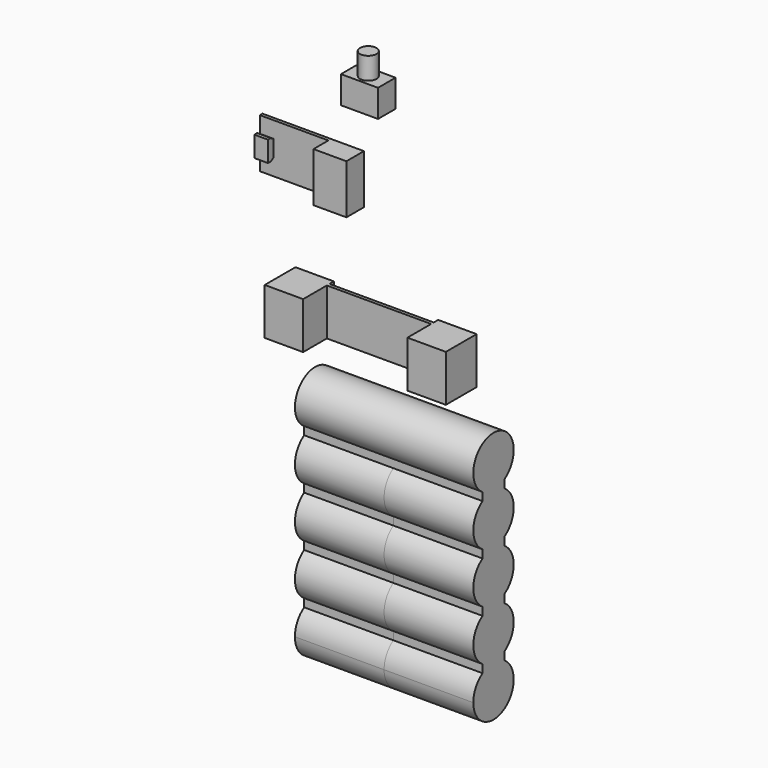
from build123d import *

# Parameters (mm, degrees)
F2_DEPTH      = 32.5
F0_W          = 38
F0_H          = 17
F3_DEPTH      = 1.2
F0_W_2        = 37
F0_H_2        = 18
F4_DEPTH      = 1.2
F5_DEPTH      = 4
F0_W_3        = 3
F0_H_3        = 8
F0_W_4        = 14
F7_DEPTH      = 10.8
F7_DEPTH_BACK = 3.2
F9_DEPTH      = 5
F10_W         = 12
F10_H         = 18
F11_DEPTH     = 8


with BuildPart() as f2:
    # F1 (on Right) → F2 (new body, symmetric)
    with BuildSketch(Plane.YZ):
        with BuildLine():
            ThreePointArc((-4.2, -54.7390203901), (-1.1179210595, -51.4117787547), (0, -47.0163265596))
            Line((0, -47.0163265596), (-18.4, -47.0163265596))
            ThreePointArc((-18.4, -47.0163265596), (-17.2820789405, -51.4117787547), (-14.2, -54.7390203901))
            ThreePointArc((-14.2, -54.7390203901), (-11.8068387969, -55.8392734305), (-9.2000000533, -56.2163265596))
            ThreePointArc((-9.2000000533, -56.2163265596), (-6.5931612543, -55.8392734456), (-4.2, -54.7390203901))
        make_face()
        with BuildLine():
            Line((-18.4, -47.0163265596), (0, -47.0163265596))
            ThreePointArc((0, -47.0163265596), (-9.2, -37.8163265596), (-18.4, -47.0163265596))
        make_face()
        with BuildLine():
            Line((-4.2, -57.6936327291), (-4.2, -54.7390203901))
            ThreePointArc((-4.2, -54.7390203901), (-6.5931612543, -55.8392734456), (-9.2000000533, -56.2163265596))
            ThreePointArc((-9.2000000533, -56.2163265596), (-6.5931612543, -56.5933796736), (-4.2, -57.6936327291))
        make_face()
        with BuildLine():
            ThreePointArc((-9.2000000533, -56.2163265596), (-11.8068387969, -55.8392734305), (-14.2, -54.7390203901))
            Line((-14.2, -54.7390203901), (-14.2, -57.6936327291))
            ThreePointArc((-14.2, -57.6936327291), (-11.8068387969, -56.5933796887), (-9.2000000533, -56.2163265596))
        make_face()
        with BuildLine():
            ThreePointArc((-4.2, -57.6936327291), (-6.5931612543, -56.5933796736), (-9.2000000533, -56.2163265596))
            ThreePointArc((-9.2000000533, -56.2163265596), (-11.8068387969, -56.5933796887), (-14.2, -57.6936327291))
            Line((-14.2, -57.6936327291), (-14.2, -73.1390203901))
            ThreePointArc((-14.2, -73.1390203901), (-11.8068387713, -74.2392734381), (-9.2, -74.6163265596))
            ThreePointArc((-9.2, -74.6163265596), (-6.5931612287, -74.2392734381), (-4.2, -73.1390203901))
            Line((-4.2, -73.1390203901), (-4.2, -57.6936327291))
        make_face()
        with BuildLine():
            ThreePointArc((0, -65.4163265596), (-1.1179210595, -61.0208743644), (-4.2, -57.6936327291))
            Line((-4.2, -57.6936327291), (-4.2, -73.1390203901))
            ThreePointArc((-4.2, -73.1390203901), (-1.1179210595, -69.8117787547), (0, -65.4163265596))
        make_face()
        with BuildLine():
            Line((-14.2, -73.1390203901), (-14.2, -57.6936327291))
            ThreePointArc((-14.2, -57.6936327291), (-18.4, -65.4163265596), (-14.2, -73.1390203901))
        make_face()
        with BuildLine():
            Line((-4.2, -76.0936327291), (-4.2, -73.1390203901))
            ThreePointArc((-4.2, -73.1390203901), (-6.5931612287, -74.2392734381), (-9.2, -74.6163265596))
            ThreePointArc((-9.2, -74.6163265596), (-6.5931612287, -74.9933796811), (-4.2, -76.0936327291))
        make_face()
        with BuildLine():
            ThreePointArc((-9.2, -74.6163265596), (-11.8068387713, -74.2392734381), (-14.2, -73.1390203901))
            Line((-14.2, -73.1390203901), (-14.2, -76.0936327291))
            ThreePointArc((-14.2, -76.0936327291), (-11.8068387713, -74.9933796811), (-9.2, -74.6163265596))
        make_face()
        with BuildLine():
            ThreePointArc((-4.2, -76.0936327291), (-6.5931612287, -74.9933796811), (-9.2, -74.6163265596))
            ThreePointArc((-9.2, -74.6163265596), (-11.8068387713, -74.9933796811), (-14.2, -76.0936327291))
            Line((-14.2, -76.0936327291), (-14.2, -91.5390203901))
            ThreePointArc((-14.2, -91.5390203901), (-11.8068387713, -92.6392734381), (-9.2, -93.0163265596))
            ThreePointArc((-9.2, -93.0163265596), (-6.5931612287, -92.6392734381), (-4.2, -91.5390203901))
            Line((-4.2, -91.5390203901), (-4.2, -76.0936327291))
        make_face()
        with BuildLine():
            ThreePointArc((0, -83.8163265596), (-1.1179210595, -79.4208743644), (-4.2, -76.0936327291))
            Line((-4.2, -76.0936327291), (-4.2, -91.5390203901))
            ThreePointArc((-4.2, -91.5390203901), (-1.1179210595, -88.2117787547), (0, -83.8163265596))
        make_face()
        with BuildLine():
            Line((-14.2, -91.5390203901), (-14.2, -76.0936327291))
            ThreePointArc((-14.2, -76.0936327291), (-18.4, -83.8163265596), (-14.2, -91.5390203901))
        make_face()
        with BuildLine():
            Line((-4.2, -94.4936327291), (-4.2, -91.5390203901))
            ThreePointArc((-4.2, -91.5390203901), (-6.5931612287, -92.6392734381), (-9.2, -93.0163265596))
            ThreePointArc((-9.2, -93.0163265596), (-6.5931612287, -93.3933796811), (-4.2, -94.4936327291))
        make_face()
        with BuildLine():
            ThreePointArc((-9.2, -93.0163265596), (-11.8068387713, -92.6392734381), (-14.2, -91.5390203901))
            Line((-14.2, -91.5390203901), (-14.2, -94.4936327291))
            ThreePointArc((-14.2, -94.4936327291), (-11.8068387713, -93.3933796811), (-9.2, -93.0163265596))
        make_face()
        with BuildLine():
            ThreePointArc((-4.2, -94.4936327291), (-6.5931612287, -93.3933796811), (-9.2, -93.0163265596))
            ThreePointArc((-9.2, -93.0163265596), (-11.8068387713, -93.3933796811), (-14.2, -94.4936327291))
            Line((-14.2, -94.4936327291), (-14.2, -109.9390203901))
            ThreePointArc((-14.2, -109.9390203901), (-11.8068387713, -111.0392734381), (-9.2, -111.4163265596))
            ThreePointArc((-9.2, -111.4163265596), (-6.5931612287, -111.0392734381), (-4.2, -109.9390203901))
            Line((-4.2, -109.9390203901), (-4.2, -94.4936327291))
        make_face()
        with BuildLine():
            ThreePointArc((0, -102.2163265596), (-1.1179210595, -97.8208743644), (-4.2, -94.4936327291))
            Line((-4.2, -94.4936327291), (-4.2, -109.9390203901))
            ThreePointArc((-4.2, -109.9390203901), (-1.1179210595, -106.6117787547), (0, -102.2163265596))
        make_face()
        with BuildLine():
            Line((-14.2, -109.9390203901), (-14.2, -94.4936327291))
            ThreePointArc((-14.2, -94.4936327291), (-18.4, -102.2163265596), (-14.2, -109.9390203901))
        make_face()
        with BuildLine():
            Line((-4.2, -112.8936327291), (-4.2, -109.9390203901))
            ThreePointArc((-4.2, -109.9390203901), (-6.5931612287, -111.0392734381), (-9.2, -111.4163265596))
            ThreePointArc((-9.2, -111.4163265596), (-6.5931612287, -111.7933796811), (-4.2, -112.8936327291))
        make_face()
        with BuildLine():
            ThreePointArc((-9.2, -111.4163265596), (-11.8068387713, -111.0392734381), (-14.2, -109.9390203901))
            Line((-14.2, -109.9390203901), (-14.2, -112.8936327291))
            ThreePointArc((-14.2, -112.8936327291), (-11.8068387713, -111.7933796811), (-9.2, -111.4163265596))
        make_face()
        with BuildLine():
            ThreePointArc((0, -120.6163265596), (-1.1179210595, -116.2208743644), (-4.2, -112.8936327291))
            ThreePointArc((-4.2, -112.8936327291), (-6.5931612287, -111.7933796811), (-9.2, -111.4163265596))
            ThreePointArc((-9.2, -111.4163265596), (-11.8068387713, -111.7933796811), (-14.2, -112.8936327291))
            ThreePointArc((-14.2, -112.8936327291), (-17.2820789405, -116.2208743644), (-18.4, -120.6163265596))
            Line((-18.4, -120.6163265596), (0, -120.6163265596))
        make_face()
        with BuildLine():
            ThreePointArc((-18.4, -120.6163265596), (-9.2, -129.8163265596), (0, -120.6163265596))
            Line((0, -120.6163265596), (-18.4, -120.6163265596))
        make_face()
    extrude(amount=F2_DEPTH, both=True)


with BuildPart() as f3:
    # F0 (on Front) → F3 (new body)
    with BuildSketch(Plane.XZ):
        with Locations((-16.5825526439, -24.9226867318)):
            Rectangle(F0_W, F0_H)
    extrude(amount=-F3_DEPTH)

    # F0 (on Front) → F7 (join, two sides)
    with BuildSketch(Plane.XZ) as f7_sk:
        with Locations((-42.5825526439, -24.9226867318)):
            Rectangle(F0_W_4, F0_H)
        with Locations((9.4174473561, -24.9226867318)):
            Rectangle(F0_W_4, F0_H)
    extrude(amount=F7_DEPTH)
    extrude(f7_sk.sketch, amount=-F7_DEPTH_BACK)


with BuildPart() as f4:
    # F0 (on Front) → F4 (new body)
    with BuildSketch(Plane.XZ):
        with Locations((-40.5584470165, 22.0681699405)):
            Rectangle(F0_W_2, F0_H_2)
    extrude(amount=F4_DEPTH)

    # F8 (on face) → F9 (join)
    with BuildSketch(Plane(origin=(-59.0584470165, 0, 0), x_dir=(0, -1, 0), z_dir=(-1, 0, 0))):
        Polygon((2.45, 25.8181699405), (1.2, 25.096482104), (1.2, 19.039857777), (2.45, 18.3181699405), (3.7, 18.3181699405), (3.7, 25.8181699405), align=None)
    extrude(amount=-F9_DEPTH)

    # F10 (on face) → F11 (join)
    with BuildSketch(Plane(origin=(0, 0, 0), x_dir=(-1, 0, 0), z_dir=(0, 1, 0))):
        with Locations((28.0584470165, 22.0681699405)):
            Rectangle(F10_W, F10_H)
    extrude(amount=-F11_DEPTH)


with BuildPart() as f5:
    # F0 (on Front) → F5 (new body, symmetric)
    with BuildSketch(Plane.XZ):
        Polygon((-20.4956220064, 55.7029140266), (-27.2456220064, 55.7029140266), (-27.2456220064, 45.7029140266), (-13.7456220064, 45.7029140266), (-13.7456220064, 55.7029140266), (-17.4956220064, 55.7029140266), align=None)
    extrude(amount=F5_DEPTH, both=True)

    # F0 (on Front) → F6 (revolve)
    with BuildSketch(Plane.XZ):
        with Locations((-18.9956220064, 59.7029140266)):
            Rectangle(F0_W_3, F0_H_3)
    revolve(axis=Axis((-20.4956220064, 0, 59.7029140266), (0, 0, 1)))


solid = Compound([f2.part, f3.part, f4.part, f5.part])
